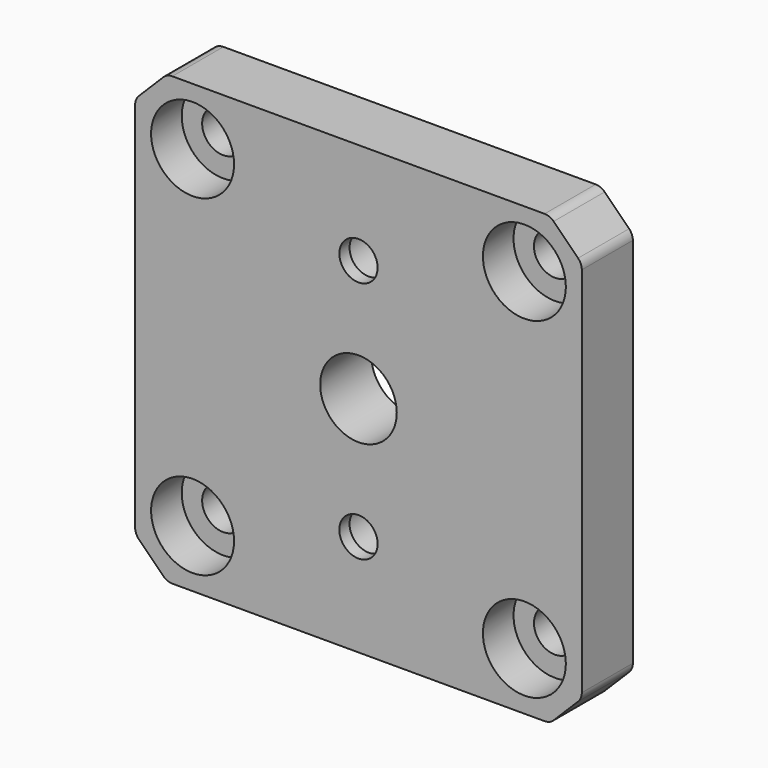
from build123d import *

# Parameters (mm, degrees)
F0_W           = 35
F0_H           = 35
F1_DEPTH       = 5
F2_R           = 3
F3_DEPTH       = 5.001
F5_D           = 3.3
F5_CBORE_D     = 6.5
F5_CBORE_DEPTH = 3
F6_SIZE        = 2.5
F7_R           = 1
F8_R           = 1.5
F9_DEPTH       = 5.001
F10_R          = 1.9
F11_DEPTH      = 4


with BuildPart() as f1:
    # F0 (on Front) → F1 (new body)
    with BuildSketch(Plane.XZ):
        Rectangle(F0_W, F0_H)
    extrude(amount=F1_DEPTH)

    # F2 (on face) → F3 (cut, through all)
    with BuildSketch(Plane.XZ.offset(5)):
        Circle(F2_R)
    extrude(amount=-F3_DEPTH, mode=Mode.SUBTRACT)

    # F5 (through all)
    with Locations(Plane.XZ.offset(5)):
        with Locations((-13, 13), (13, 13), (13, -13), (-13, -13)):
            CounterBoreHole(F5_D / 2, F5_CBORE_D / 2, F5_CBORE_DEPTH)

    # F6
    f6_edges = [f1.edges().sort_by_distance(p)[0] for p in [
        (17.5, -2.5, 17.5),
        (-17.5, -2.5, 17.5),
        (17.5, -2.5, -17.5),
        (-17.5, -2.5, -17.5),
    ]]
    chamfer(f6_edges, length=F6_SIZE)

    # F7
    f7_edges = [f1.edges().sort_by_distance(p)[0] for p in [
        (15, -2.5, 17.5),
        (17.5, -2.5, 15),
        (17.5, -2.5, -15),
        (15, -2.5, -17.5),
        (-15, -2.5, -17.5),
        (-17.5, -2.5, -15),
        (-15, -2.5, 17.5),
        (-17.5, -2.5, 15),
    ]]
    fillet(f7_edges, radius=F7_R)

    # F8 (on face) → F9 (cut, through all)
    with BuildSketch(Plane.XZ.offset(5)):
        with Locations((0, 9.525)):
            Circle(F8_R)
        with Locations((0, -9.525)):
            Circle(F8_R)
    extrude(amount=-F9_DEPTH, mode=Mode.SUBTRACT)

    # F10 (on face) → F11 (cut)
    with BuildSketch(Plane(origin=(0, 0, 0), x_dir=(-1, 0, 0), z_dir=(0, 1, 0))):
        with Locations((0, -9.525)):
            Circle(F10_R)
        with Locations((0, 9.525)):
            Circle(F10_R)
    extrude(amount=-F11_DEPTH, mode=Mode.SUBTRACT)


solid = f1.part
